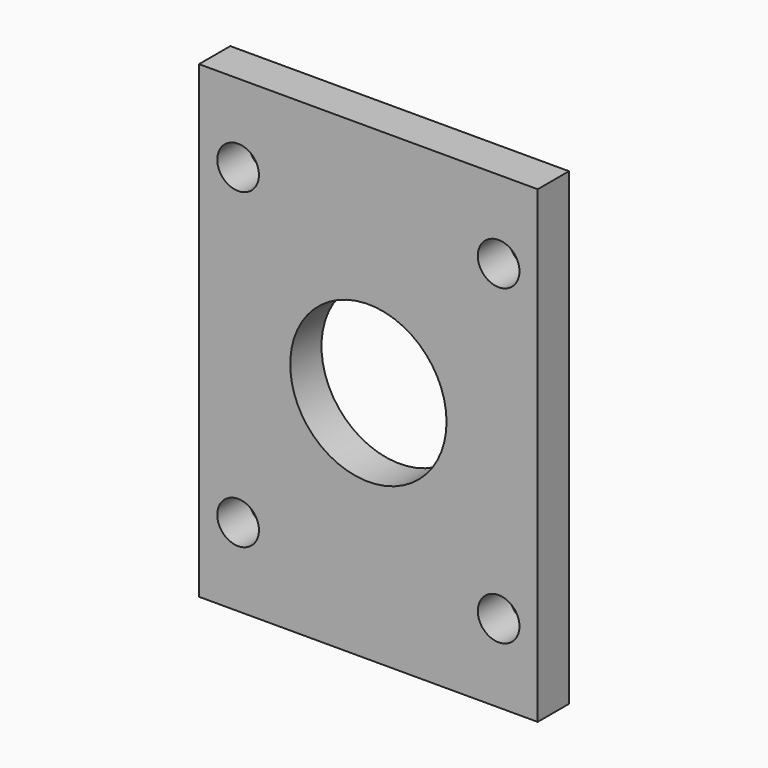
from build123d import *

# Parameters (mm, degrees)
CYLINDER1875_R     = 1.6
CYLINDER1875_DEPTH = 80
CYLINDER1873_R     = 1.6
CYLINDER1873_DEPTH = 80
CYLINDER1874_R     = 1.6
CYLINDER1874_DEPTH = 80
CYLINDER1872_R     = 1.6
CYLINDER1872_DEPTH = 80
CYLINDER1871_R     = 6
CYLINDER1871_DEPTH = 20
BOX745_W           = 26
BOX745_H           = 3
BOX745_DEPTH       = 36


with BuildPart() as obj1:
    # Cylinder1875 → Cylinder1875 (new body)
    with BuildSketch(Plane(origin=(-10, 80, 31), x_dir=(1, 0, 0), z_dir=(0, -1, 0))):
        Circle(CYLINDER1875_R)
    extrude(amount=CYLINDER1875_DEPTH)


with BuildPart() as obj2:
    # Cylinder1873 → Cylinder1873 (new body)
    with BuildSketch(Plane(origin=(10, 80, 55), x_dir=(1, 0, 0), z_dir=(0, -1, 0))):
        Circle(CYLINDER1873_R)
    extrude(amount=CYLINDER1873_DEPTH)


with BuildPart() as obj3:
    # Cylinder1874 → Cylinder1874 (new body)
    with BuildSketch(Plane(origin=(10, 80, 31), x_dir=(1, 0, 0), z_dir=(0, -1, 0))):
        Circle(CYLINDER1874_R)
    extrude(amount=CYLINDER1874_DEPTH)


with BuildPart() as compound844:
    # Cylinder1872 → Cylinder1872 (new body)
    with BuildSketch(Plane(origin=(-10, 80, 55), x_dir=(1, 0, 0), z_dir=(0, -1, 0))):
        Circle(CYLINDER1872_R)
    extrude(amount=CYLINDER1872_DEPTH)

    # Compound844: union obj1, obj2, obj3
    add(obj1.part)
    add(obj2.part)
    add(obj3.part)


with BuildPart() as compound844_1:
    # Compound844 placement: moved
    add(compound844.part.moved(Location((0, -90, -141))))


with BuildPart() as obj4:
    # Cylinder1871 → Cylinder1871 (new body)
    with BuildSketch(Plane(origin=(0, -60, -98), x_dir=(1, 0, 0), z_dir=(0, -1, 0))):
        Circle(CYLINDER1871_R)
    extrude(amount=CYLINDER1871_DEPTH)


with BuildPart() as cut683:
    # Box745 → Box745 (new body)
    with BuildSketch(Plane(origin=(-13, -72, -116), x_dir=(1, 0, 0), z_dir=(0, 0, 1))):
        with Locations((13, 1.5)):
            Rectangle(BOX745_W, BOX745_H)
    extrude(amount=BOX745_DEPTH)

    # Cut682: cut obj4
    add(obj4.part, mode=Mode.SUBTRACT)

    # Cut683: cut Compound844
    add(compound844_1.part, mode=Mode.SUBTRACT)


solid = cut683.part
